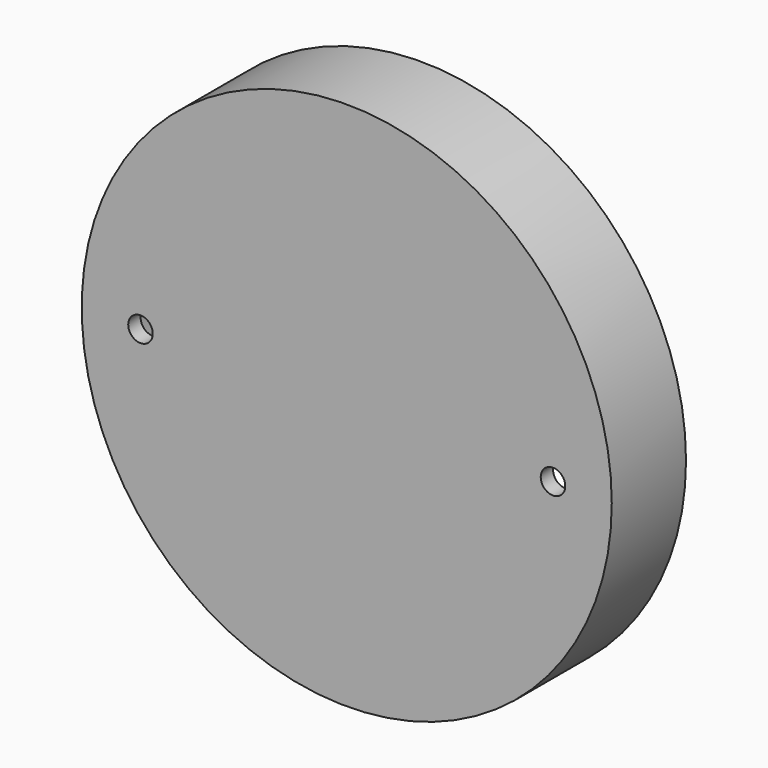
from build123d import *

# Parameters (mm, degrees)
F0_R     = 32.639
F1_DEPTH = 11.43
F2_R     = 30.353
F3_DEPTH = 9.525
F4_R     = 1.5113
F5_DEPTH = 1.905


with BuildPart() as f1:
    # F0 (on Front) → F1 (new body)
    with BuildSketch(Plane.XZ):
        Circle(F0_R)
    extrude(amount=F1_DEPTH)

    # F2 (on face) → F3 (cut)
    with BuildSketch(Plane(origin=(0, 0, 0), x_dir=(-1, 0, 0), z_dir=(0, 1, 0))):
        Circle(F2_R)
    extrude(amount=-F3_DEPTH, mode=Mode.SUBTRACT)

    # F4 (on face) → F5 (cut)
    with BuildSketch(Plane(origin=(0, -9.525, 0), x_dir=(-1, 0, 0), z_dir=(0, 1, 0))):
        with Locations((-25.4, 0)):
            Circle(F4_R)
        with Locations((25.4, 0)):
            Circle(F4_R)
    extrude(amount=-F5_DEPTH, mode=Mode.SUBTRACT)


solid = f1.part
